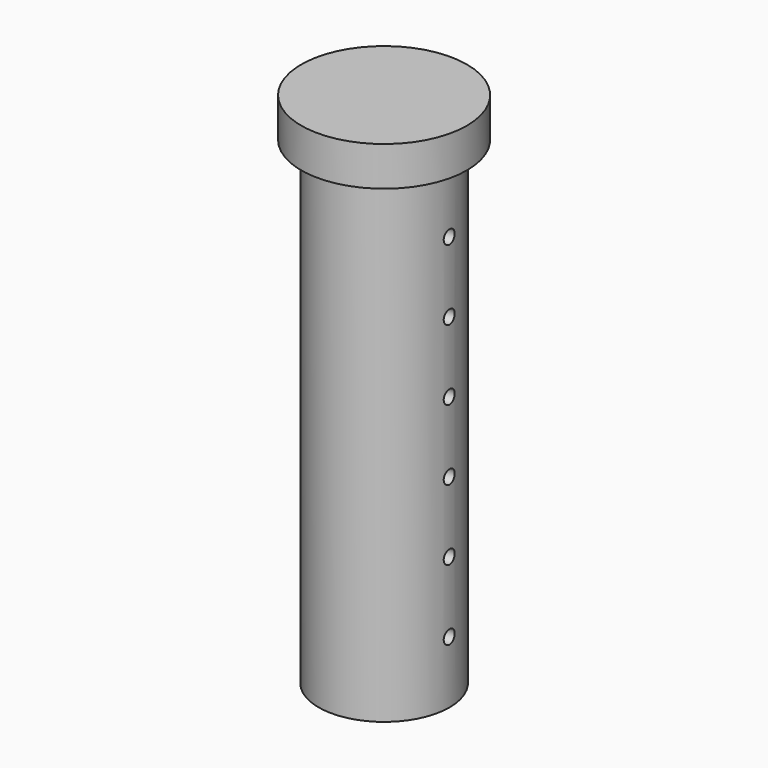
from build123d import *

# Parameters (mm, degrees)
CYLINDER017_R     = 15.8
CYLINDER017_DEPTH = 10
CYLINDER018_R     = 20
CYLINDER018_DEPTH = 10
CYLINDER016_R     = 1.65
CYLINDER016_DEPTH = 50
ARRAY002_Z_COUNT  = 6
ARRAY002_Z_PITCH  = 17
CYLINDER020_R     = 1.65
CYLINDER020_DEPTH = 50
CYLINDER015_R     = 1.65
CYLINDER015_DEPTH = 50
CYLINDER019_R     = 20
CYLINDER019_DEPTH = 10
CYLINDER014_R     = 15.8
CYLINDER014_DEPTH = 115


with BuildPart() as cylinder016:
    # Cylinder017 → Cylinder017 (new body)
    with BuildSketch(Plane.XY):
        Circle(CYLINDER017_R)
    extrude(amount=CYLINDER017_DEPTH)


with BuildPart() as cut012:
    # Cylinder018 → Cylinder018 (new body)
    with BuildSketch(Plane.XY):
        Circle(CYLINDER018_R)
    extrude(amount=CYLINDER018_DEPTH)

    # Cut012: cut Cylinder016
    add(cylinder016.part, mode=Mode.SUBTRACT)


with BuildPart() as cut012_1:
    # Cut012 placement: moved
    add(cut012.part.moved(Location((0, 0, 190.5))))


with BuildPart() as array002:
    # Cylinder016 → Cylinder016 (new body)
    with BuildSketch(Plane(origin=(-25, 0, 15), x_dir=(0, 0, -1), z_dir=(1, 0, 0))):
        Circle(CYLINDER016_R)
    extrude(amount=CYLINDER016_DEPTH)

    # Array002 Z: Array002 ×6


with BuildPart() as array002_1:
    add(array002.part)
    with Locations(*[(0, 0, i * ARRAY002_Z_PITCH) for i in range(1, ARRAY002_Z_COUNT)]):
        add(array002.part)


with BuildPart() as array002_2:
    # Array002 placement: moved
    add(array002_1.part.moved(Location((0, 0, 85))))


with BuildPart() as cylinder020:
    # Cylinder020 → Cylinder020 (new body)
    with BuildSketch(Plane(origin=(-25, 0, 15), x_dir=(0, 0, -1), z_dir=(1, 0, 0))):
        Circle(CYLINDER020_R)
    extrude(amount=CYLINDER020_DEPTH)


with BuildPart() as cylinder013:
    # Cylinder015 → Cylinder015 (new body)
    with BuildSketch(Plane(origin=(-25, 0, 100), x_dir=(0, 0, -1), z_dir=(1, 0, 0))):
        Circle(CYLINDER015_R)
    extrude(amount=CYLINDER015_DEPTH)


with BuildPart() as cylinder019:
    # Cylinder019 → Cylinder019 (new body)
    with BuildSketch(Plane.XY.offset(115)):
        Circle(CYLINDER019_R)
    extrude(amount=CYLINDER019_DEPTH)


with BuildPart() as cut011:
    # Cylinder014 → Cylinder014 (new body)
    with BuildSketch(Plane.XY):
        Circle(CYLINDER014_R)
    extrude(amount=CYLINDER014_DEPTH)

    # Fusion002: union Cylinder019
    add(cylinder019.part)

    # Cut013: cut Cylinder013
    add(cylinder013.part, mode=Mode.SUBTRACT)

    # Cut014: cut Cylinder020
    add(cylinder020.part, mode=Mode.SUBTRACT)


with BuildPart() as cut011_1:
    # Cut014 placement: moved
    add(cut011.part.moved(Location((0, 0, 85))))

    # Cut010: cut Array002
    add(array002_2.part, mode=Mode.SUBTRACT)

    # Cut011: cut Cut012
    add(cut012_1.part, mode=Mode.SUBTRACT)


solid = cut011_1.part
